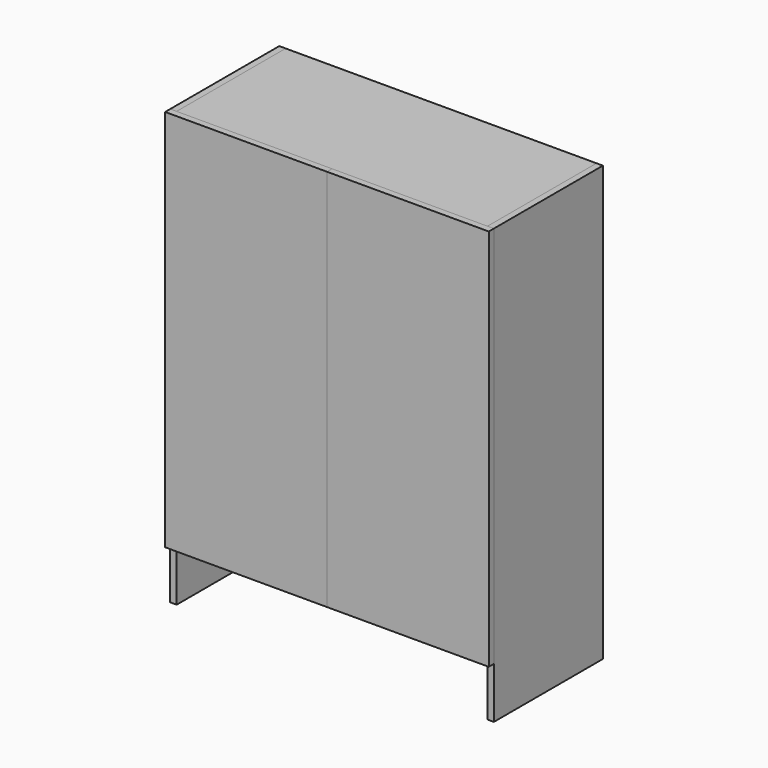
from build123d import *

# Parameters (mm, degrees)
F0_W      = 19.05
F0_H      = 406.4
F3_DEPTH  = 1295.4
F5_W      = 19.05
F5_H      = 406.4
F6_DEPTH  = 1295.4
F7_W      = 927.1
F7_H      = 406.4
F8_DEPTH  = 19.05
F9_W      = 482.6
F9_H      = 19.05
F10_DEPTH = 1143
F11_DEPTH = 1143


with BuildPart() as f3:
    # F0 (on Top) → F3 (new body)
    with BuildSketch(Plane.XY):
        with Locations((9.525, 203.2)):
            Rectangle(F0_W, F0_H)
    extrude(amount=F3_DEPTH)


with BuildPart() as f6:
    # F5 (on Top) → F6 (new body)
    with BuildSketch(Plane.XY):
        with Locations((955.675, 203.2)):
            Rectangle(F5_W, F5_H)
    extrude(amount=F6_DEPTH)


with BuildPart() as f8:
    # F7 (on offset) → F8 (new body)
    with BuildSketch(Plane.XY.offset(1295.4)):
        with Locations((482.6, 203.2)):
            Rectangle(F7_W, F7_H)
    extrude(amount=-F8_DEPTH)


with BuildPart() as f10:
    # F9 (on offset) → F10 (new body)
    with BuildSketch(Plane.XY.offset(152.4)):
        with Locations((241.3, -9.525)):
            Rectangle(F9_W, F9_H)
    extrude(amount=F10_DEPTH)


with BuildPart() as f11:
    # F9 (on offset) → F11 (new body)
    with BuildSketch(Plane.XY.offset(152.4)):
        with Locations((723.9, -9.525)):
            Rectangle(F9_W, F9_H)
    extrude(amount=F11_DEPTH)


solid = Compound([f3.part, f6.part, f8.part, f10.part, f11.part])
